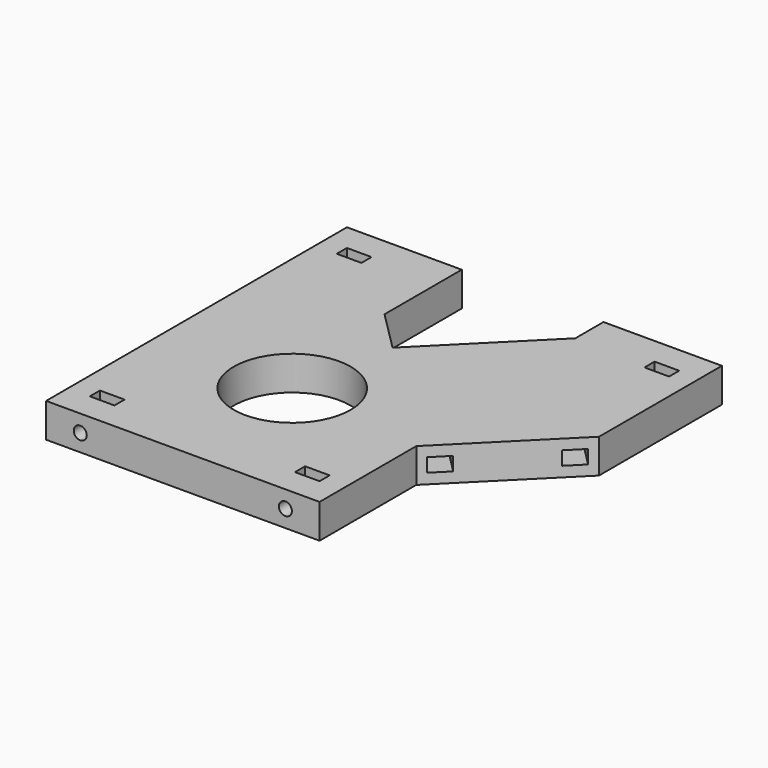
from build123d import *

# Parameters (mm, degrees)
SKETCH003_R     = 17.1
PAD001_DEPTH    = 10
SKETCH001_W     = 6
SKETCH001_H     = 4
POCKET_DEPTH    = 50
SKETCH004_R     = 1.9
POCKET001_DEPTH = 20
SKETCH006_R     = 1.9
POCKET002_DEPTH = 20
SKETCH007_R     = 1.45
POCKET003_DEPTH = 20
SKETCH_W        = 7.2
SKETCH_H        = 3.7
POCKET004_DEPTH = 9


with BuildPart() as part:
    # Sketch003 → Pad001 (new body)
    with BuildSketch(Plane.XY):
        Polygon((-40, -40), (-40, 30), (-40, 70), (-6.4034604704, 70), (-6.4034604704, 41.7587995296), (5.3553390593, 30), (35.0538238691, 59.6984848098), (35.0538238691, 70), (69.6984848098, 70), (69.6984848098, 25.0538238692), (40, -4.6446609407), (40, -40), align=None)
        Circle(SKETCH003_R, mode=Mode.SUBTRACT)
    extrude(amount=PAD001_DEPTH)

    # Sketch001 → Pocket (cut)
    with BuildSketch(Plane(origin=(22.3223304704, -22.3223304703, 0), x_dir=(0.7071067812, 0.7071067812, 0), z_dir=(0.7071067812, -0.7071067812, 0))):
        with Locations((30.5, 5)):
            Rectangle(SKETCH001_W, SKETCH001_H)
        with Locations((61.5, 5)):
            Rectangle(SKETCH001_W, SKETCH001_H)
    extrude(amount=-POCKET_DEPTH, mode=Mode.SUBTRACT)

    # Sketch004 → Pocket001 (cut)
    with BuildSketch(Plane(origin=(0, 70, 0), x_dir=(-1, 0, 0), z_dir=(0, 1, 0))):
        with Locations((30, 5)):
            Circle(SKETCH004_R)
        with Locations((-60, 5)):
            Circle(SKETCH004_R)
    extrude(amount=-POCKET001_DEPTH, mode=Mode.SUBTRACT)

    # Sketch006 → Pocket002 (cut)
    with BuildSketch(Plane.XZ.offset(40)):
        with Locations((30, 5)):
            Circle(SKETCH006_R)
        with Locations((-30, 5)):
            Circle(SKETCH006_R)
    extrude(amount=-POCKET002_DEPTH, mode=Mode.SUBTRACT)

    # Sketch007 → Pocket003 (cut)
    with BuildSketch(Plane(origin=(-40, 0, 0), x_dir=(0, -1, 0), z_dir=(-1, 0, 0))):
        with Locations((-15.5, 5)):
            Circle(SKETCH007_R)
        with Locations((15.5, 5)):
            Circle(SKETCH007_R)
    extrude(amount=-POCKET003_DEPTH, mode=Mode.SUBTRACT)

    # Sketch → Pocket004 (cut)
    with BuildSketch(Plane.XY.offset(10)):
        with Locations((-30, -30.15)):
            Rectangle(SKETCH_W, SKETCH_H)
        with Locations((30, -30.15)):
            Rectangle(SKETCH_W, SKETCH_H)
        with Locations((-30, 60.15)):
            Rectangle(SKETCH_W, SKETCH_H)
        with Locations((60, 60.15)):
            Rectangle(SKETCH_W, SKETCH_H)
    extrude(amount=-POCKET004_DEPTH, mode=Mode.SUBTRACT)


solid = part.part
